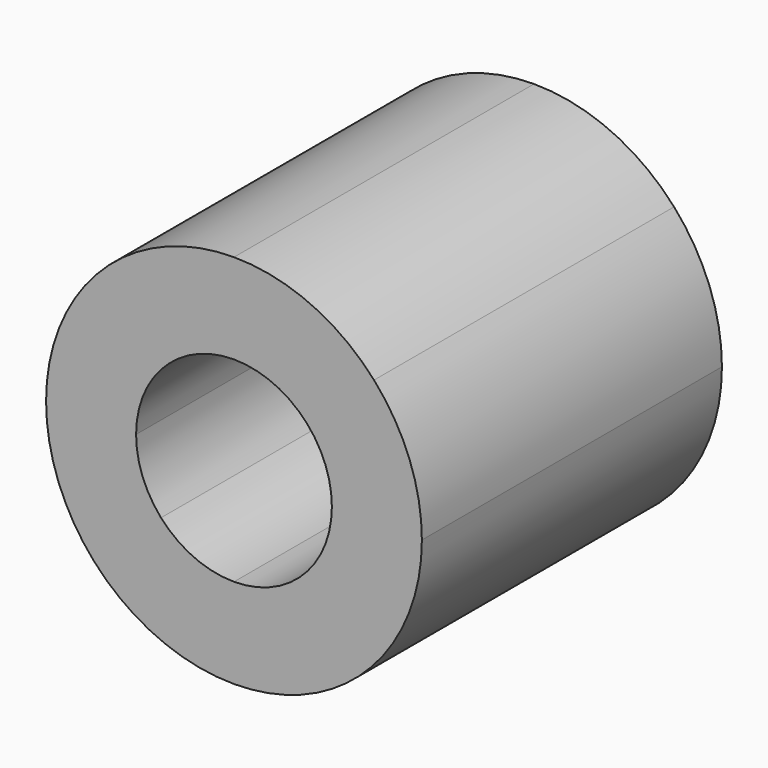
from build123d import *

# Parameters (mm, degrees)
F1_DEPTH = 25


with BuildPart() as f1:
    # F0 (on Front) → F1 (new body)
    with BuildSketch(Plane.XZ):
        with BuildLine():
            ThreePointArc((-4.3394231509, 4.8722430533), (-2.3216701125, 6.0974743576), (0, 6.5245188062))
            Line((0, 6.5245188062), (0, 12.5245188062))
            ThreePointArc((0, 12.5245188062), (-4.4566966316, 11.7047608459), (-8.3299916017, 9.3527969743))
            Line((-8.3299916017, 9.3527969743), (-4.3394231509, 4.8722430533))
        make_face()
        with BuildLine():
            Line((-12.5245188062, 0), (-6.5245188062, 0))
            ThreePointArc((-6.5245188062, 0), (-5.9532341466, 2.6698967861), (-4.3394231509, 4.8722430533))
            Line((-4.3394231509, 4.8722430533), (-8.3299916017, 9.3527969743))
            ThreePointArc((-8.3299916017, 9.3527969743), (-11.4278761762, 5.1251553564), (-12.5245188062, 0))
        make_face()
        with BuildLine():
            ThreePointArc((-4.8633482309, -4.3493895707), (-6.0950944474, -2.3279109368), (-6.5245188062, 0))
            Line((-6.5245188062, 0), (-12.5245188062, 0))
            ThreePointArc((-12.5245188062, 0), (-11.7001923513, -4.468676568), (-9.3357224016, -8.3491232214))
            Line((-9.3357224016, -8.3491232214), (-4.8633482309, -4.3493895707))
        make_face()
        with BuildLine():
            Line((0, -12.5245188062), (0, -6.5245188062))
            ThreePointArc((0, -6.5245188062), (-2.6638010064, -5.9559642251), (-4.8633482309, -4.3493895707))
            Line((-4.8633482309, -4.3493895707), (-9.3357224016, -8.3491232214))
            ThreePointArc((-9.3357224016, -8.3491232214), (-5.1134538487, -11.4331168569), (0, -12.5245188062))
        make_face()
        with BuildLine():
            Line((8.3299916017, -9.3527969743), (4.3394231509, -4.8722430533))
            ThreePointArc((4.3394231509, -4.8722430533), (2.3216701125, -6.0974743576), (0, -6.5245188062))
            Line((0, -6.5245188062), (0, -12.5245188062))
            ThreePointArc((0, -12.5245188062), (4.4566966316, -11.7047608459), (8.3299916017, -9.3527969743))
        make_face()
        with BuildLine():
            ThreePointArc((4.8633482309, 4.3493895707), (6.0950944474, 2.3279109368), (6.5245188062, 0))
            Line((6.5245188062, 0), (12.5245188062, 0))
            ThreePointArc((12.5245188062, 0), (11.7001923513, 4.468676568), (9.3357224016, 8.3491232214))
            Line((9.3357224016, 8.3491232214), (4.8633482309, 4.3493895707))
        make_face()
        with BuildLine():
            ThreePointArc((0, 6.5245188062), (2.6638010064, 5.9559642251), (4.8633482309, 4.3493895707))
            Line((4.8633482309, 4.3493895707), (9.3357224016, 8.3491232214))
            ThreePointArc((9.3357224016, 8.3491232214), (5.1134538487, 11.4331168569), (0, 12.5245188062))
            Line((0, 12.5245188062), (0, 6.5245188062))
        make_face()
        with BuildLine():
            Line((12.5245188062, 0), (6.5245188062, 0))
            ThreePointArc((6.5245188062, 0), (5.9532341466, -2.6698967861), (4.3394231509, -4.8722430533))
            Line((4.3394231509, -4.8722430533), (8.3299916017, -9.3527969743))
            ThreePointArc((8.3299916017, -9.3527969743), (11.4278761762, -5.1251553564), (12.5245188062, 0))
        make_face()
    extrude(amount=F1_DEPTH)


solid = f1.part
